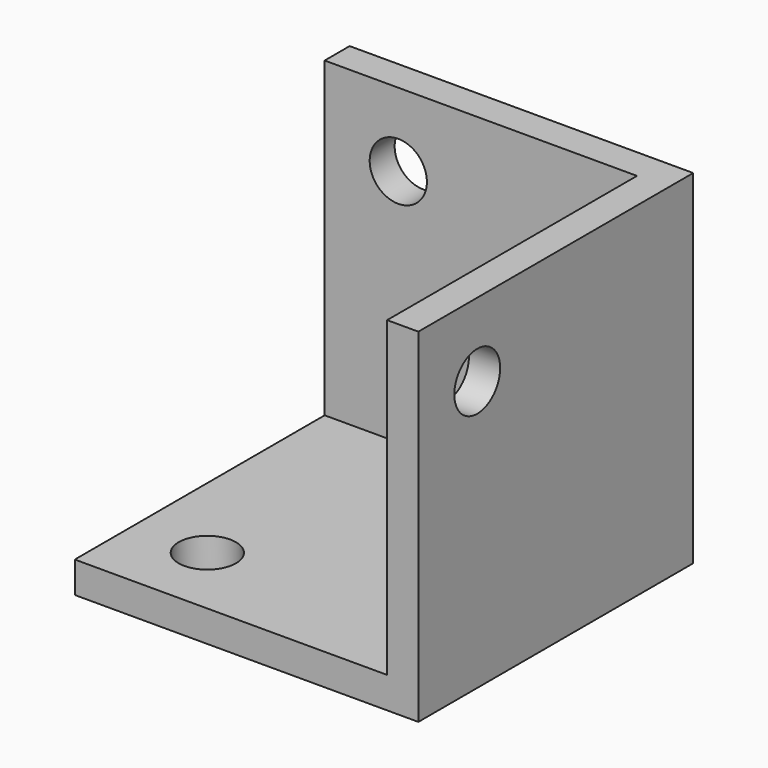
from build123d import *

# Parameters (mm, degrees)
F0_W     = 33
F0_H     = 33
F1_DEPTH = 3
F2_W     = 30
F2_H     = 3
F2_W_2   = 3
F2_H_2   = 30
F3_DEPTH = 30
F6_R     = 2.75
F7_DEPTH = 3
F4_R     = 2.75
F8_DEPTH = 3
F5_R     = 2.75
F9_DEPTH = 3


with BuildPart() as f1:
    # F0 (on Top) → F1 (new body)
    with BuildSketch(Plane.XY):
        Rectangle(F0_W, F0_H)
    extrude(amount=F1_DEPTH)

    # F2 (on face) → F3 (join)
    with BuildSketch(Plane.XY.offset(3)):
        with Locations((-1.5, 15)):
            Rectangle(F2_W, F2_H)
        with Locations((15, 15)):
            Rectangle(F2_W_2, F2_H)
        with Locations((15, -1.5)):
            Rectangle(F2_W_2, F2_H_2)
    extrude(amount=F3_DEPTH)

    # F6 (on face) → F7 (cut)
    with BuildSketch(Plane(origin=(0, 16.5, 0), x_dir=(-1, 0, 0), z_dir=(0, 1, 0))):
        with Locations((9.428932, 25.928932)):
            Circle(F6_R)
    extrude(amount=-F7_DEPTH, mode=Mode.SUBTRACT)

    # F4 (on face) → F8 (cut)
    with BuildSketch(Plane(origin=(0, 0, 0), x_dir=(1, 0, 0), z_dir=(0, 0, -1))):
        with Locations((-9.428932, 9.428932)):
            Circle(F4_R)
    extrude(amount=-F8_DEPTH, mode=Mode.SUBTRACT)

    # F5 (on face) → F9 (cut)
    with BuildSketch(Plane.YZ.offset(16.5)):
        with Locations((-9.428932, 25.928932)):
            Circle(F5_R)
    extrude(amount=-F9_DEPTH, mode=Mode.SUBTRACT)


solid = f1.part
